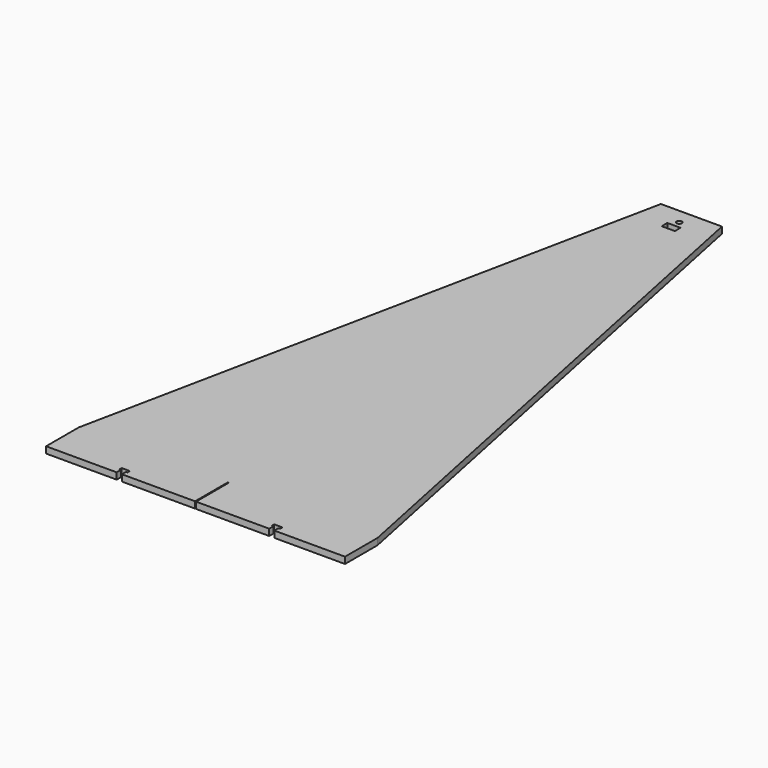
from build123d import *

# Parameters (mm, degrees)
F0_W     = 13
F0_H     = 7
F0_R     = 2.55
F1_DEPTH = 6.35


with BuildPart() as f1:
    # F0 (on Top) → F1 (new body)
    with BuildSketch(Plane.XY):
        Polygon((-30.4, 304.8), (-147.4, -264.8), (-0.9, -264.8), (0.1, -264.8), (146.6, -264.8), (29.6, 304.8), align=None)
        with Locations((-0.4, 279.8)):
            Rectangle(F0_W, F0_H, mode=Mode.SUBTRACT)
        with Locations((-0.4, 289.8)):
            Circle(F0_R, mode=Mode.SUBTRACT)
        Polygon((-0.9, -264.8), (-147.4, -264.8), (-147.4, -304.8), (-77.95, -304.8), (-77.95, -299.8), (-79.45, -299.8), (-79.45, -296.8), (-71.35, -296.8), (-71.35, -299.8), (-72.85, -299.8), (-72.85, -304.8), (-0.9, -304.8), align=None)
        Polygon((146.6, -264.8), (0.1, -264.8), (0.1, -304.8), (72.05, -304.8), (72.05, -299.8), (70.55, -299.8), (70.55, -296.8), (78.65, -296.8), (78.65, -299.8), (77.15, -299.8), (77.15, -304.8), (146.6, -304.8), align=None)
    extrude(amount=F1_DEPTH)


solid = f1.part
